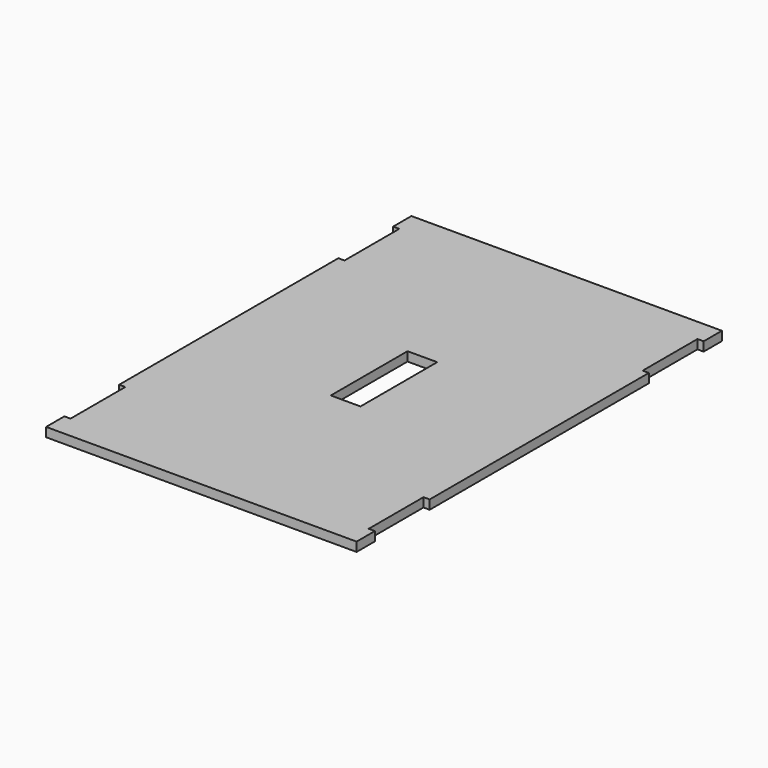
from build123d import *

# Parameters (mm, degrees)
F0_W     = 13
F0_H     = 42
F1_DEPTH = 4


with BuildPart() as f1:
    # F0 (on Top) → F1 (new body)
    with BuildSketch(Plane.XY):
        Polygon((68, 90), (68, 100), (-68, 100), (-68, 90), (-65.3, 90), (-65.3, 60), (-68, 60), (-68, -60), (-65.3, -60), (-65.3, -90), (-68, -90), (-68, -100), (68, -100), (68, -90), (65.3, -90), (65.3, -60), (68, -60), (68, 60), (65.3, 60), (65.3, 90), align=None)
        Rectangle(F0_W, F0_H, mode=Mode.SUBTRACT)
    extrude(amount=F1_DEPTH)


solid = f1.part
